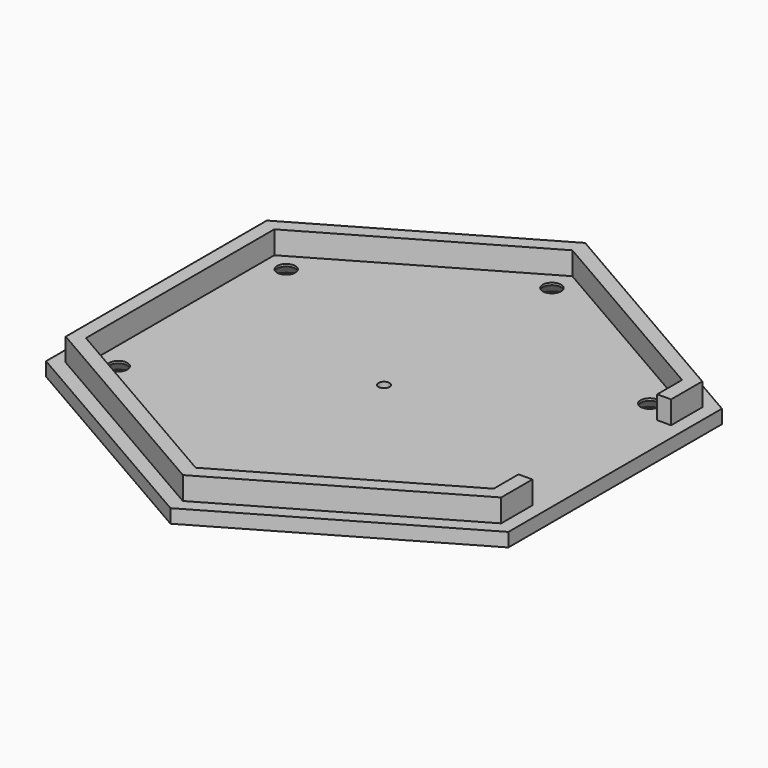
from build123d import *

# Parameters (mm, degrees)
CYLINDER050_R            = 2
CYLINDER050_DEPTH        = 21
ARRAY002_COUNT           = 6
CYLINDER043_R            = 1.2
CYLINDER043_DEPTH        = 10
PRISM002_DEPTH           = 3
PRISM002_PLACEMENT_ANGLE = 30
BOX010_W                 = 5
BOX010_H                 = 38
BOX010_DEPTH             = 10
PRISM004_DEPTH           = 11
PRISM004_PLACEMENT_ANGLE = 30
PRISM003_DEPTH           = 5
PRISM003_PLACEMENT_ANGLE = 30
CHAMFER007_SIZE          = 2.5


with BuildPart() as agujeros_tornillos_tapa_inferior:
    # Cylinder050 → Cylinder050 (new body)
    with BuildSketch(Plane(origin=(0, -46, -8), x_dir=(1, 0, 0), z_dir=(0, 0, 1))):
        Circle(CYLINDER050_R)
    extrude(amount=CYLINDER050_DEPTH)

    # Array002: agujeros tornillos tapa inferior ×6 about axis
    array002_axis = Axis((0, 0, 0), (0, 0, 1))


with BuildPart() as agujeros_tornillos_tapa_inferior_1:
    add(agujeros_tornillos_tapa_inferior.part)
    for i in range(1, ARRAY002_COUNT):
        add(agujeros_tornillos_tapa_inferior.part.rotate(array002_axis, i * 360 / ARRAY002_COUNT))


with BuildPart() as cilindro019:
    # Cylinder043 → Cylinder043 (new body)
    with BuildSketch(Plane.XY.offset(-6)):
        Circle(CYLINDER043_R)
    extrude(amount=CYLINDER043_DEPTH)


with BuildPart() as obj1:
    # Prism002 → Prism002 (new body)
    with BuildSketch(Plane.XY):
        Polygon((58.5, 0), (29.25, 50.662486), (-29.25, 50.662486), (-58.5, 0), (-29.25, -50.662486), (29.25, -50.662486), align=None)
    extrude(amount=PRISM002_DEPTH)


with BuildPart() as obj1_1:
    # Prism002 placement: moved
    add(obj1.part.moved(Location((0, 0, -3))).rotate(Axis((0, 0, -3), (0, 0, 1)), PRISM002_PLACEMENT_ANGLE))

    # Cut011: cut Cilindro019
    add(cilindro019.part, mode=Mode.SUBTRACT)


with BuildPart() as cubo007:
    # Box010 → Box010 (new body)
    with BuildSketch(Plane(origin=(43.7, -19, 0), x_dir=(1, 0, 0), z_dir=(0, 0, 1))):
        with Locations((2.5, 19)):
            Rectangle(BOX010_W, BOX010_H)
    extrude(amount=BOX010_DEPTH)


with BuildPart() as tapa002:
    # Prism004 → Prism004 (new body)
    with BuildSketch(Plane.XY):
        Polygon((51.6, 0), (25.8, 44.686911), (-25.8, 44.686911), (-51.6, 0), (-25.8, -44.686911), (25.8, -44.686911), align=None)
    extrude(amount=PRISM004_DEPTH)


with BuildPart() as tapa002_1:
    # Prism004 placement: moved
    add(tapa002.part.rotate(Axis((0, 0, 0), (0, 0, 1)), PRISM004_PLACEMENT_ANGLE))


with BuildPart() as obj2:
    # Prism003 → Prism003 (new body)
    with BuildSketch(Plane.XY):
        Polygon((55.1, 0), (27.55, 47.718), (-27.55, 47.718), (-55.1, 0), (-27.55, -47.718), (27.55, -47.718), align=None)
    extrude(amount=PRISM003_DEPTH)


with BuildPart() as obj2_1:
    # Prism003 placement: moved
    add(obj2.part.rotate(Axis((0, 0, 0), (0, 0, 1)), PRISM003_PLACEMENT_ANGLE))

    # Cut006: cut tapa002
    add(tapa002_1.part, mode=Mode.SUBTRACT)

    # Cut007: cut Cubo007
    add(cubo007.part, mode=Mode.SUBTRACT)

    # Fusion006: union obj1
    add(obj1_1.part)

    # Cut021: cut agujeros tornillos tapa inferior
    add(agujeros_tornillos_tapa_inferior_1.part, mode=Mode.SUBTRACT)

    # Chamfer007
    chamfer007_edges = [obj2_1.edges().sort_by_distance(p)[0] for p in [
        (-2, -46, -3),
        (38.837169, -24.732051, -3),
        (2, 46, -3),
        (-38.837169, 24.732051, -3),
        (-40.837169, -21.267949, -3),
        (40.837169, 21.267949, -3),
    ]]
    chamfer(chamfer007_edges, length=CHAMFER007_SIZE)


solid = obj2_1.part
